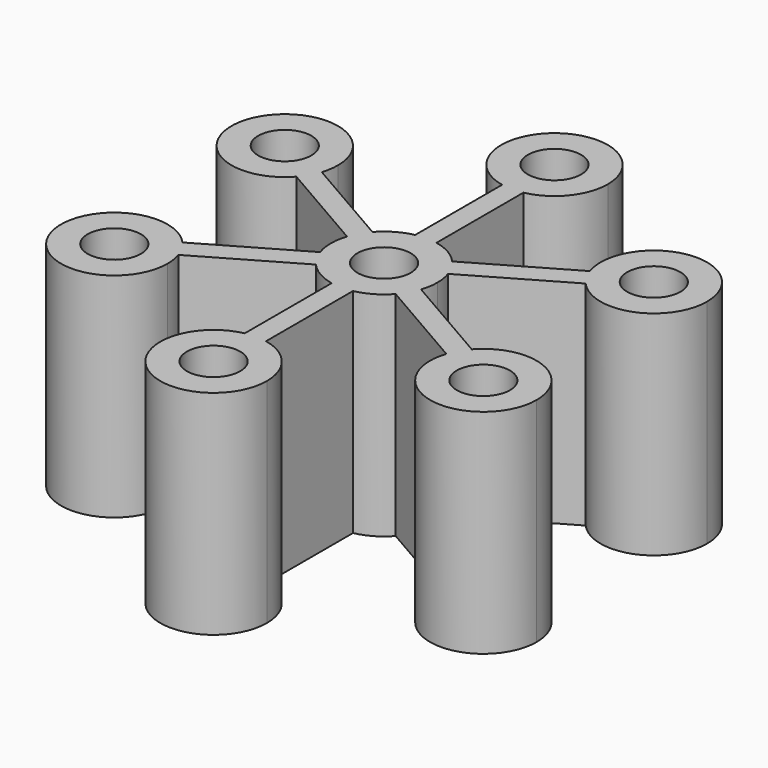
from build123d import *

# Parameters (mm, degrees)
F0_R     = 1.5875
F1_DEPTH = 12.7


with BuildPart() as f1:
    # F0 (on Top) → F1 (new body)
    with BuildSketch(Plane.XY):
        with BuildLine():
            ThreePointArc((3.011577, -1.0055), (3.133878, -0.509347), (3.175, 0))
            ThreePointArc((3.175, 0), (3.133878, 0.509347), (3.011577, 1.0055))
            ThreePointArc((3.011577, 1.0055), (2.749631, 1.5875), (2.376577, 2.105352))
            ThreePointArc((2.376577, 2.105352), (1.5875, 2.749631), (0.635, 3.110852))
            ThreePointArc((0.635, 3.110852), (0, 3.175), (-0.635, 3.110852))
            ThreePointArc((-0.635, 3.110852), (-1.5875, 2.749631), (-2.376577, 2.105352))
            ThreePointArc((-2.376577, 2.105352), (-2.749631, 1.5875), (-3.011577, 1.0055))
            ThreePointArc((-3.011577, 1.0055), (-3.175, 0), (-3.011577, -1.0055))
            ThreePointArc((-3.011577, -1.0055), (-2.749631, -1.5875), (-2.376577, -2.105352))
            ThreePointArc((-2.376577, -2.105352), (-1.5875, -2.749631), (-0.635, -3.110852))
            ThreePointArc((-0.635, -3.110852), (0, -3.175), (0.635, -3.110852))
            ThreePointArc((0.635, -3.110852), (1.5875, -2.749631), (2.376577, -2.105352))
            ThreePointArc((2.376577, -2.105352), (2.749631, -1.5875), (3.011577, -1.0055))
        make_face()
        Circle(F0_R, mode=Mode.SUBTRACT)
        with BuildLine():
            ThreePointArc((2.376577, 2.105352), (2.749631, 1.5875), (3.011577, 1.0055))
            Line((3.011577, 1.0055), (8.621946, 4.244648))
            ThreePointArc((8.621946, 4.244648), (8.248892, 4.7625), (7.986946, 5.3445))
            Line((7.986946, 5.3445), (2.376577, 2.105352))
        make_face()
        with BuildLine():
            Line((8.621946, -4.244648), (3.011577, -1.0055))
            ThreePointArc((3.011577, -1.0055), (2.749631, -1.5875), (2.376577, -2.105352))
            Line((2.376577, -2.105352), (7.986946, -5.3445))
            ThreePointArc((7.986946, -5.3445), (8.248892, -4.7625), (8.621946, -4.244648))
        make_face()
        with BuildLine():
            ThreePointArc((7.986946, 5.3445), (8.248892, 4.7625), (8.621946, 4.244648))
            ThreePointArc((8.621946, 4.244648), (12.124354, 3.381309), (14.173523, 6.35))
            ThreePointArc((14.173523, 6.35), (10.489176, 9.483878), (7.986946, 5.3445))
        make_face()
        with Locations((10.998523, 6.35)):
            Circle(F0_R, mode=Mode.SUBTRACT)
        with BuildLine():
            ThreePointArc((14.173523, -6.35), (12.124354, -3.381309), (8.621946, -4.244648))
            ThreePointArc((8.621946, -4.244648), (8.248892, -4.7625), (7.986946, -5.3445))
            ThreePointArc((7.986946, -5.3445), (10.489176, -9.483878), (14.173523, -6.35))
        make_face()
        with Locations((10.998523, -6.35)):
            Circle(F0_R, mode=Mode.SUBTRACT)
        with BuildLine():
            ThreePointArc((-0.635, 3.110852), (0, 3.175), (0.635, 3.110852))
            Line((0.635, 3.110852), (0.635, 9.589148))
            ThreePointArc((0.635, 9.589148), (0, 9.525), (-0.635, 9.589148))
            Line((-0.635, 9.589148), (-0.635, 3.110852))
        make_face()
        with BuildLine():
            Line((0.635, -9.589148), (0.635, -3.110852))
            ThreePointArc((0.635, -3.110852), (0, -3.175), (-0.635, -3.110852))
            Line((-0.635, -3.110852), (-0.635, -9.589148))
            ThreePointArc((-0.635, -9.589148), (0, -9.525), (0.635, -9.589148))
        make_face()
        with BuildLine():
            ThreePointArc((-0.635, 9.589148), (0, 9.525), (0.635, 9.589148))
            ThreePointArc((0.635, 9.589148), (2.459344, 10.691954), (3.175, 12.7))
            ThreePointArc((3.175, 12.7), (-2.008046, 15.159344), (-0.635, 9.589148))
        make_face()
        with Locations((0, 12.7)):
            Circle(F0_R, mode=Mode.SUBTRACT)
        with BuildLine():
            ThreePointArc((3.175, -12.7), (2.459344, -10.691954), (0.635, -9.589148))
            ThreePointArc((0.635, -9.589148), (0, -9.525), (-0.635, -9.589148))
            ThreePointArc((-0.635, -9.589148), (-2.008046, -15.159344), (3.175, -12.7))
        make_face()
        with Locations((0, -12.7)):
            Circle(F0_R, mode=Mode.SUBTRACT)
        with BuildLine():
            ThreePointArc((-3.011577, 1.0055), (-2.749631, 1.5875), (-2.376577, 2.105352))
            Line((-2.376577, 2.105352), (-7.986946, 5.3445))
            ThreePointArc((-7.986946, 5.3445), (-8.248892, 4.7625), (-8.621946, 4.244648))
            Line((-8.621946, 4.244648), (-3.011577, 1.0055))
        make_face()
        with BuildLine():
            Line((-7.986946, -5.3445), (-2.376577, -2.105352))
            ThreePointArc((-2.376577, -2.105352), (-2.749631, -1.5875), (-3.011577, -1.0055))
            Line((-3.011577, -1.0055), (-8.621946, -4.244648))
            ThreePointArc((-8.621946, -4.244648), (-8.248892, -4.7625), (-7.986946, -5.3445))
        make_face()
        with BuildLine():
            ThreePointArc((-8.621946, 4.244648), (-8.248892, 4.7625), (-7.986946, 5.3445))
            ThreePointArc((-7.986946, 5.3445), (-7.864645, 5.840653), (-7.823523, 6.35))
            ThreePointArc((-7.823523, 6.35), (-13.967214, 7.475832), (-8.621946, 4.244648))
        make_face()
        with Locations((-10.998523, 6.35)):
            Circle(F0_R, mode=Mode.SUBTRACT)
        with BuildLine():
            ThreePointArc((-7.823523, -6.35), (-7.864645, -5.840653), (-7.986946, -5.3445))
            ThreePointArc((-7.986946, -5.3445), (-8.248892, -4.7625), (-8.621946, -4.244648))
            ThreePointArc((-8.621946, -4.244648), (-13.967214, -7.475832), (-7.823523, -6.35))
        make_face()
        with Locations((-10.998523, -6.35)):
            Circle(F0_R, mode=Mode.SUBTRACT)
    extrude(amount=F1_DEPTH)


solid = f1.part
